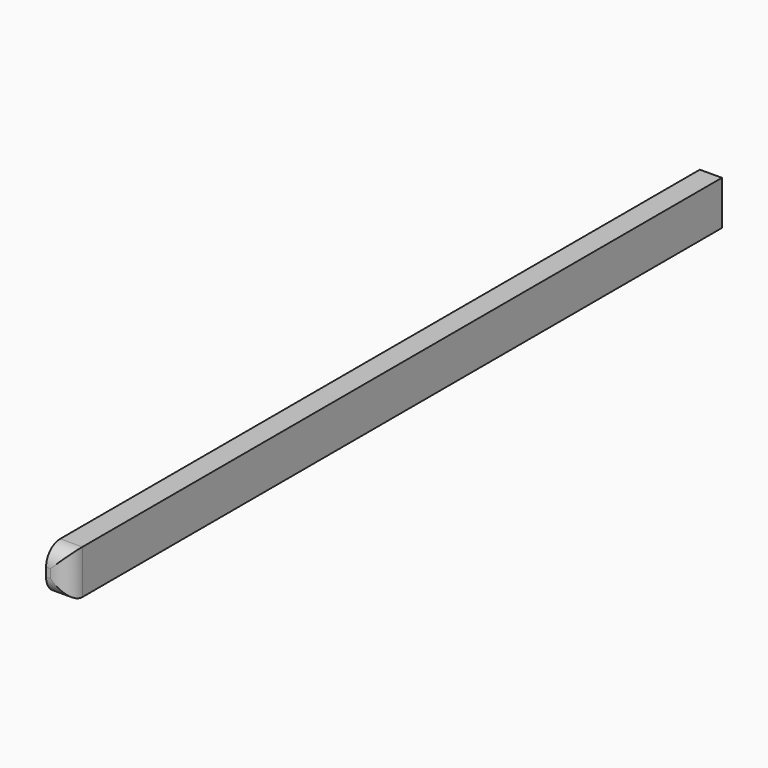
from build123d import *

# Parameters (mm, degrees)
F0_W     = 234.95
F0_H     = 12.7
F1_DEPTH = 6.35
F2_R     = 5.08


with BuildPart() as f1:
    # F0 (on Right) → F1 (new body)
    with BuildSketch(Plane.YZ):
        Rectangle(F0_W, F0_H)
    extrude(amount=F1_DEPTH)

    # F2
    f2_edges = [f1.edges().sort_by_distance(p)[0] for p in [
        (3.175, -117.475, 6.35),
        (6.35, -117.475, 0),
        (3.175, -117.475, -6.35),
    ]]
    fillet(f2_edges, radius=F2_R)


solid = f1.part
